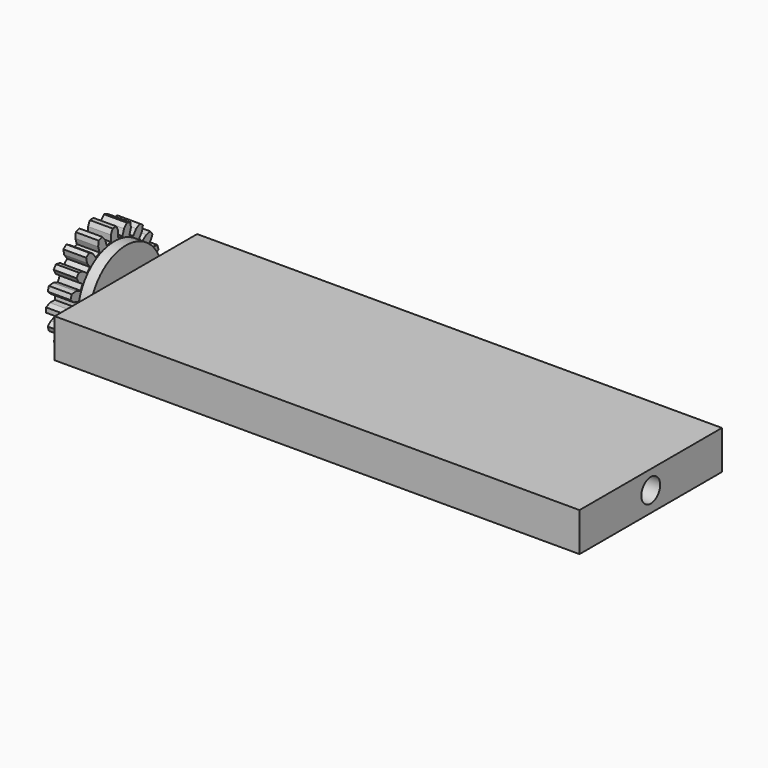
from build123d import *

# Parameters (mm, degrees)
F0_W     = 115
F0_H     = 39
F1_DEPTH = 8.5
F2_R     = 10
F2_R_2   = 2.525
F3_DEPTH = 2.5
F4_R     = 2.575
F5_DEPTH = 115.001
F7_DEPTH = 5
F8_R     = 8.05
F9_DEPTH = 5


with BuildPart() as f1:
    # F0 (on Top) → F1 (new body)
    with BuildSketch(Plane.XY):
        Rectangle(F0_W, F0_H)
    extrude(amount=F1_DEPTH)

    # F2 (on face) → F3 (join)
    with BuildSketch(Plane(origin=(-57.5, 0, 0), x_dir=(0, -1, 0), z_dir=(-1, 0, 0))):
        with Locations((0, 4.25)):
            Circle(F2_R)
        with Locations((0, 4.25)):
            Circle(F2_R_2, mode=Mode.SUBTRACT)
    extrude(amount=F3_DEPTH)

    # F4 (on face) → F5 (cut, through all)
    with BuildSketch(Plane(origin=(-57.5, 0, 0), x_dir=(0, -1, 0), z_dir=(-1, 0, 0))):
        with Locations((0, 4.4)):
            Circle(F4_R)
    extrude(amount=-F5_DEPTH, mode=Mode.SUBTRACT)

    # F6 (on face) → F7 (join)
    with BuildSketch(Plane(origin=(-60, 0, 0), x_dir=(0, -1, 0), z_dir=(-1, 0, 0))):
        with BuildLine():
            ThreePointArc((0.518394, 16.889246), (0, 16.9), (-0.518394, 16.889246))
            Line((-0.518394, 16.889246), (-1, 15.856439))
            Line((-1, 15.856439), (-1, 14.496058))
            ThreePointArc((-1, 14.496058), (-1.5871, 14.420554), (-2.168797, 14.310939))
            Line((-2.168797, 14.310939), (-2.589178, 15.604738))
            Line((-2.589178, 15.604738), (-3.366367, 16.438171))
            ThreePointArc((-3.366367, 16.438171), (-3.862712, 16.288206), (-4.352412, 16.117786))
            Line((-4.352412, 16.117786), (-4.491291, 14.986704))
            Line((-4.491291, 14.986704), (-4.07091, 13.692905))
            ThreePointArc((-4.07091, 13.692905), (-4.605943, 13.439672), (-5.125297, 13.155668))
            Line((-5.125297, 13.155668), (-5.924909, 14.256239))
            Line((-5.924909, 14.256239), (-6.921605, 14.808717))
            ThreePointArc((-6.921605, 14.808717), (-7.347316, 14.512712), (-7.760384, 14.199308))
            Line((-7.760384, 14.199308), (-7.542943, 13.080669))
            Line((-7.542943, 13.080669), (-6.743331, 11.980097))
            ThreePointArc((-6.743331, 11.980097), (-7.173924, 11.573924), (-7.580097, 11.143331))
            Line((-7.580097, 11.143331), (-8.680669, 11.942943))
            Line((-8.680669, 11.942943), (-9.799308, 12.160384))
            ThreePointArc((-9.799308, 12.160384), (-10.112712, 11.747316), (-10.408717, 11.321605))
            Line((-10.408717, 11.321605), (-9.856239, 10.324909))
            Line((-9.856239, 10.324909), (-8.755668, 9.525297))
            ThreePointArc((-8.755668, 9.525297), (-9.039672, 9.005943), (-9.292905, 8.47091))
            Line((-9.292905, 8.47091), (-10.586704, 8.891291))
            Line((-10.586704, 8.891291), (-11.717786, 8.752412))
            ThreePointArc((-11.717786, 8.752412), (-11.888206, 8.262712), (-12.038171, 7.766367))
            Line((-12.038171, 7.766367), (-11.204738, 6.989178))
            Line((-11.204738, 6.989178), (-9.910939, 6.568797))
            ThreePointArc((-9.910939, 6.568797), (-10.020554, 5.9871), (-10.096058, 5.4))
            Line((-10.096058, 5.4), (-11.456439, 5.4))
            Line((-11.456439, 5.4), (-12.489246, 4.918394))
            ThreePointArc((-12.489246, 4.918394), (-12.5, 4.4), (-12.489246, 3.881606))
            Line((-12.489246, 3.881606), (-11.456439, 3.4))
            Line((-11.456439, 3.4), (-10.096058, 3.4))
            ThreePointArc((-10.096058, 3.4), (-10.020554, 2.8129), (-9.910939, 2.231203))
            Line((-9.910939, 2.231203), (-11.204738, 1.810822))
            Line((-11.204738, 1.810822), (-12.038171, 1.033633))
            ThreePointArc((-12.038171, 1.033633), (-11.888206, 0.537288), (-11.717786, 0.047588))
            Line((-11.717786, 0.047588), (-10.586704, -0.091291))
            Line((-10.586704, -0.091291), (-9.292905, 0.32909))
            ThreePointArc((-9.292905, 0.32909), (-9.039672, -0.205943), (-8.755668, -0.725297))
            Line((-8.755668, -0.725297), (-9.856239, -1.524909))
            Line((-9.856239, -1.524909), (-10.408717, -2.521605))
            ThreePointArc((-10.408717, -2.521605), (-10.112712, -2.947316), (-9.799308, -3.360384))
            Line((-9.799308, -3.360384), (-8.680669, -3.142943))
            Line((-8.680669, -3.142943), (-7.580097, -2.343331))
            ThreePointArc((-7.580097, -2.343331), (-7.173924, -2.773924), (-6.743331, -3.180097))
            Line((-6.743331, -3.180097), (-7.542943, -4.280669))
            Line((-7.542943, -4.280669), (-7.760384, -5.399308))
            ThreePointArc((-7.760384, -5.399308), (-7.347316, -5.712712), (-6.921605, -6.008717))
            Line((-6.921605, -6.008717), (-5.924909, -5.456239))
            Line((-5.924909, -5.456239), (-5.125297, -4.355668))
            ThreePointArc((-5.125297, -4.355668), (-4.605943, -4.639672), (-4.07091, -4.892905))
            Line((-4.07091, -4.892905), (-4.491291, -6.186704))
            Line((-4.491291, -6.186704), (-4.352412, -7.317786))
            ThreePointArc((-4.352412, -7.317786), (-3.862712, -7.488206), (-3.366367, -7.638171))
            Line((-3.366367, -7.638171), (-2.589178, -6.804738))
            Line((-2.589178, -6.804738), (-2.168797, -5.510939))
            ThreePointArc((-2.168797, -5.510939), (-1.5871, -5.620554), (-1, -5.696058))
            Line((-1, -5.696058), (-1, -7.056439))
            Line((-1, -7.056439), (-0.518394, -8.089246))
            ThreePointArc((-0.518394, -8.089246), (0, -8.1), (0.518394, -8.089246))
            Line((0.518394, -8.089246), (1, -7.056439))
            Line((1, -7.056439), (1, -5.696058))
            ThreePointArc((1, -5.696058), (1.5871, -5.620554), (2.168797, -5.510939))
            Line((2.168797, -5.510939), (2.589178, -6.804738))
            Line((2.589178, -6.804738), (3.366367, -7.638171))
            ThreePointArc((3.366367, -7.638171), (3.862712, -7.488206), (4.352412, -7.317786))
            Line((4.352412, -7.317786), (4.491291, -6.186704))
            Line((4.491291, -6.186704), (4.07091, -4.892905))
            ThreePointArc((4.07091, -4.892905), (4.605943, -4.639672), (5.125297, -4.355668))
            Line((5.125297, -4.355668), (5.924909, -5.456239))
            Line((5.924909, -5.456239), (6.921605, -6.008717))
            ThreePointArc((6.921605, -6.008717), (7.347316, -5.712712), (7.760384, -5.399308))
            Line((7.760384, -5.399308), (7.542943, -4.280669))
            Line((7.542943, -4.280669), (6.743331, -3.180097))
            ThreePointArc((6.743331, -3.180097), (7.173924, -2.773924), (7.580097, -2.343331))
            Line((7.580097, -2.343331), (8.680669, -3.142943))
            Line((8.680669, -3.142943), (9.799308, -3.360384))
            ThreePointArc((9.799308, -3.360384), (10.112712, -2.947316), (10.408717, -2.521605))
            Line((10.408717, -2.521605), (9.856239, -1.524909))
            Line((9.856239, -1.524909), (8.755668, -0.725297))
            ThreePointArc((8.755668, -0.725297), (9.039672, -0.205943), (9.292905, 0.32909))
            Line((9.292905, 0.32909), (10.586704, -0.091291))
            Line((10.586704, -0.091291), (11.717786, 0.047588))
            ThreePointArc((11.717786, 0.047588), (11.888206, 0.537288), (12.038171, 1.033633))
            Line((12.038171, 1.033633), (11.204738, 1.810822))
            Line((11.204738, 1.810822), (9.910939, 2.231203))
            ThreePointArc((9.910939, 2.231203), (10.020554, 2.8129), (10.096058, 3.4))
            Line((10.096058, 3.4), (11.456439, 3.4))
            Line((11.456439, 3.4), (12.489246, 3.881606))
            ThreePointArc((12.489246, 3.881606), (12.5, 4.4), (12.489246, 4.918394))
            Line((12.489246, 4.918394), (11.456439, 5.4))
            Line((11.456439, 5.4), (10.096058, 5.4))
            ThreePointArc((10.096058, 5.4), (10.020554, 5.9871), (9.910939, 6.568797))
            Line((9.910939, 6.568797), (11.204738, 6.989178))
            Line((11.204738, 6.989178), (12.038171, 7.766367))
            ThreePointArc((12.038171, 7.766367), (11.888206, 8.262712), (11.717786, 8.752412))
            Line((11.717786, 8.752412), (10.586704, 8.891291))
            Line((10.586704, 8.891291), (9.292905, 8.47091))
            ThreePointArc((9.292905, 8.47091), (9.039672, 9.005943), (8.755668, 9.525297))
            Line((8.755668, 9.525297), (9.856239, 10.324909))
            Line((9.856239, 10.324909), (10.408717, 11.321605))
            ThreePointArc((10.408717, 11.321605), (10.112712, 11.747316), (9.799308, 12.160384))
            Line((9.799308, 12.160384), (8.680669, 11.942943))
            Line((8.680669, 11.942943), (7.580097, 11.143331))
            ThreePointArc((7.580097, 11.143331), (7.173924, 11.573924), (6.743331, 11.980097))
            Line((6.743331, 11.980097), (7.542943, 13.080669))
            Line((7.542943, 13.080669), (7.760384, 14.199308))
            ThreePointArc((7.760384, 14.199308), (7.347316, 14.512712), (6.921605, 14.808717))
            Line((6.921605, 14.808717), (5.924909, 14.256239))
            Line((5.924909, 14.256239), (5.125297, 13.155668))
            ThreePointArc((5.125297, 13.155668), (4.605943, 13.439672), (4.07091, 13.692905))
            Line((4.07091, 13.692905), (4.491291, 14.986704))
            Line((4.491291, 14.986704), (4.352412, 16.117786))
            ThreePointArc((4.352412, 16.117786), (3.862712, 16.288206), (3.366367, 16.438171))
            Line((3.366367, 16.438171), (2.589178, 15.604738))
            Line((2.589178, 15.604738), (2.168797, 14.310939))
            ThreePointArc((2.168797, 14.310939), (1.5871, 14.420554), (1, 14.496058))
            Line((1, 14.496058), (1, 15.856439))
            Line((1, 15.856439), (0.518394, 16.889246))
        make_face()
    extrude(amount=F7_DEPTH)

    # F8 (on face) → F9 (cut)
    with BuildSketch(Plane(origin=(-65, 0, 0), x_dir=(0, -1, 0), z_dir=(-1, 0, 0))):
        with Locations((0, 4.4)):
            Circle(F8_R)
    extrude(amount=-F9_DEPTH, mode=Mode.SUBTRACT)


solid = f1.part
